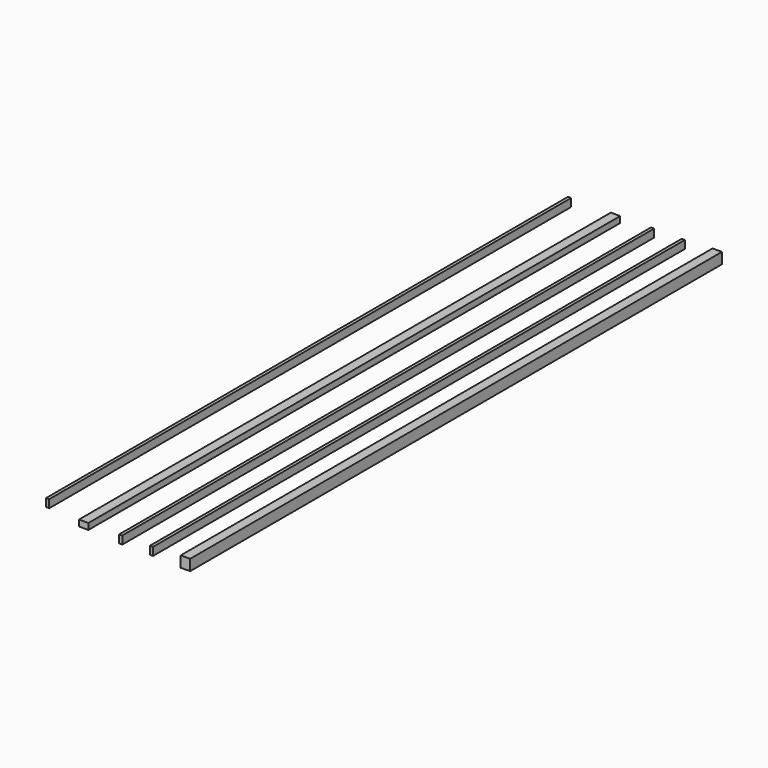
from build123d import *

# Parameters (mm, degrees)
F0_W     = 152.4
F0_H     = 10800
F1_DEPTH = 100
F2_W     = 152.4
F2_H     = 10800
F3_DEPTH = 152.4
F4_W     = 50.8
F4_H     = 10800
F5_DEPTH = 127
F4_H_2   = 10599.524739
F6_DEPTH = 130
F7_DEPTH = 25


with BuildPart() as f1:
    # F0 (on Top) → F1 (new body)
    with BuildSketch(Plane.XY):
        with Locations((-76.2, 5400)):
            Rectangle(F0_W, F0_H)
    extrude(amount=F1_DEPTH)


with BuildPart() as f3:
    # F2 (on face) → F3 (new body)
    with BuildSketch(Plane.XY.offset(100)):
        with Locations((1576.2, 5400)):
            Rectangle(F2_W, F2_H)
    extrude(amount=-F3_DEPTH)

    # F2 (on face) → F7 (join)
    with BuildSketch(Plane.XY.offset(100)):
        with Locations((1576.2, 5400)):
            Rectangle(F2_W, F2_H)
    extrude(amount=F7_DEPTH)


with BuildPart() as f5:
    # F4 (on face) → F5 (new body)
    with BuildSketch(Plane.XY.offset(100)):
        with Locations((525.4, 5400)):
            Rectangle(F4_W, F4_H)
    extrude(amount=-F5_DEPTH)

    # F4 (on face) → F6 (join)
    with BuildSketch(Plane.XY.offset(100)):
        with Locations((525.4, 5400)):
            Rectangle(F4_W, F4_H)
        with Locations((1024.6, 5400)):
            Rectangle(F4_W, F4_H)
        with Locations((-822.2, 5500.23763)):
            Rectangle(F4_W, F4_H_2)
    extrude(amount=-F6_DEPTH)


solid = Compound([f1.part, f3.part, f5.part])
